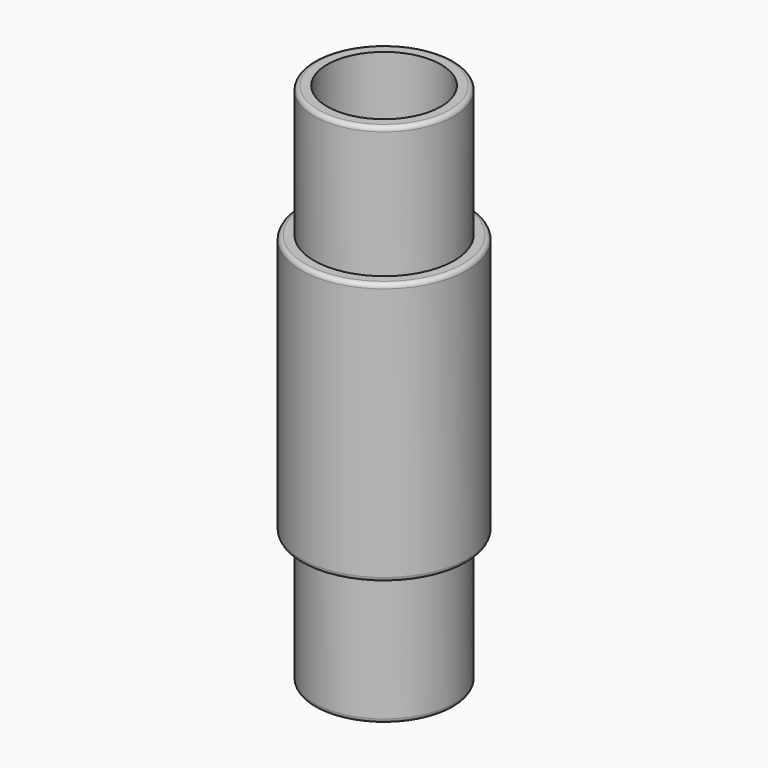
from build123d import *

# Parameters (mm, degrees)
CYLINDER002_R     = 13
CYLINDER002_DEPTH = 120
CYLINDER001_R     = 16
CYLINDER001_DEPTH = 120
FILLET001_R       = 1
CYLINDER003_R     = 13
CYLINDER003_DEPTH = 120
CYLINDER_R        = 19
CYLINDER_DEPTH    = 60
FILLET_R          = 1


with BuildPart() as obj1:
    # Cylinder002 → Cylinder002 (new body)
    with BuildSketch(Plane.XY.offset(-60)):
        Circle(CYLINDER002_R)
    extrude(amount=CYLINDER002_DEPTH)


with BuildPart() as fillet001:
    # Cylinder001 → Cylinder001 (new body)
    with BuildSketch(Plane.XY.offset(-60)):
        Circle(CYLINDER001_R)
    extrude(amount=CYLINDER001_DEPTH)

    # Cut: cut obj1
    add(obj1.part, mode=Mode.SUBTRACT)

    # Fillet001
    fillet001_edges = [fillet001.edges().sort_by_distance(p)[0] for p in [
        (-16, 0, 60),
        (-16, 0, -60),
    ]]
    fillet(fillet001_edges, radius=FILLET001_R)


with BuildPart() as obj2:
    # Cylinder003 → Cylinder003 (new body)
    with BuildSketch(Plane.XY.offset(-60)):
        Circle(CYLINDER003_R)
    extrude(amount=CYLINDER003_DEPTH)


with BuildPart() as fusion:
    # Cylinder → Cylinder (new body)
    with BuildSketch(Plane.XY.offset(-30)):
        Circle(CYLINDER_R)
    extrude(amount=CYLINDER_DEPTH)

    # Cut001: cut obj2
    add(obj2.part, mode=Mode.SUBTRACT)

    # Fillet
    fillet_edges = [fusion.edges().sort_by_distance(p)[0] for p in [
        (-19, 0, 30),
        (-19, 0, -30),
    ]]
    fillet(fillet_edges, radius=FILLET_R)

    # Fusion: union Fillet001
    add(fillet001.part)


solid = fusion.part
